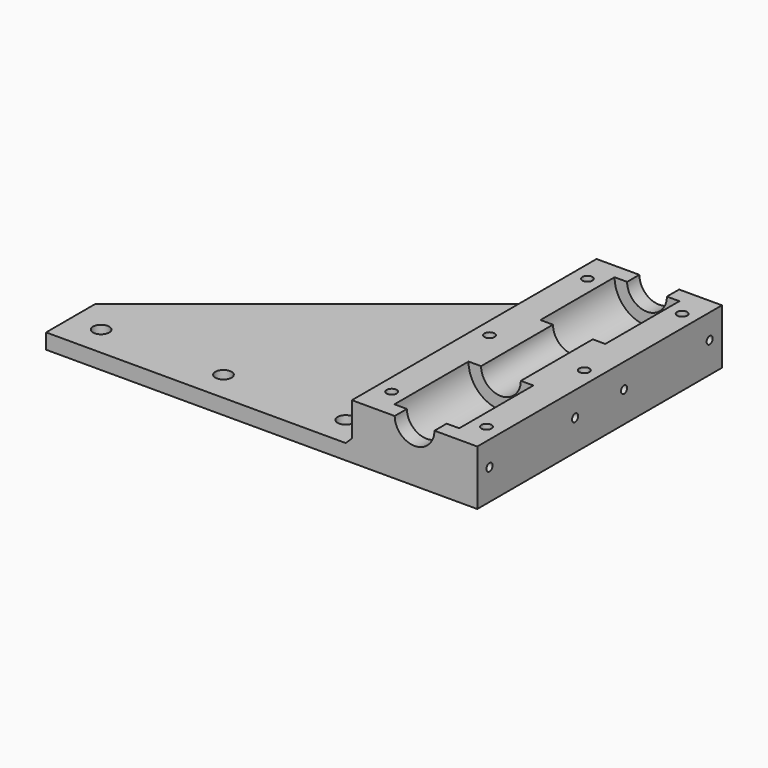
from build123d import *

# Parameters (mm, degrees)
PAD_DEPTH       = 50
POCKET_DEPTH    = 18.001
SKETCH003_R     = 10.6
POCKET001_DEPTH = 30.3
SKETCH004_R     = 10.6
POCKET002_DEPTH = 30.3
SKETCH005_R     = 1.65
SKETCH005_R_2   = 2.65
POCKET007_DEPTH = 18.001
POCKET008_DEPTH = 5
SKETCH006_R     = 1.25
POCKET009_DEPTH = 10
CHAMFER_SIZE    = 2


with BuildPart() as part:
    # Sketch001 → Pad (new body, symmetric)
    with BuildSketch(Plane.XZ):
        with BuildLine():
            Line((-20.5, 0), (-6.5, 0))
            ThreePointArc((-6.5, 0), (0, -6.5), (6.5, 0))
            Line((6.5, 0), (20.5, 0))
            Line((20.5, 0), (20.5, -18))
            Line((20.5, -18), (-120.5, -18))
            Line((-120.5, -18), (-120.5, -13))
            Line((-20.5, -13), (-120.5, -13))
            Line((-20.5, 0), (-20.5, -13))
        make_face()
    extrude(amount=PAD_DEPTH, both=True)

    # Sketch002 → Pocket (cut, through all)
    with BuildSketch(Plane.XY):
        Polygon((-20.5, 50), (-120.5, 50), (-120.5, -30), align=None)
    extrude(amount=-POCKET_DEPTH, mode=Mode.SUBTRACT)

    # Sketch003 (on DatumPlane) → Pocket001 (cut)
    with BuildSketch(Plane.XZ.offset(45)):
        Circle(SKETCH003_R)
    extrude(amount=-POCKET001_DEPTH, mode=Mode.SUBTRACT)

    # Sketch004 (on DatumPlane) → Pocket002 (cut)
    with BuildSketch(Plane.XZ.offset(-45)):
        Circle(SKETCH004_R)
    extrude(amount=POCKET002_DEPTH, mode=Mode.SUBTRACT)

    # Sketch005 → Pocket007 (cut, through all)
    with BuildSketch(Plane.XY):
        with Locations((-15.5, -40)):
            Circle(SKETCH005_R)
        with Locations((15.5, -40)):
            Circle(SKETCH005_R)
        with Locations((15.5, 0)):
            Circle(SKETCH005_R)
        with Locations((15.5, 40)):
            Circle(SKETCH005_R)
        with Locations((-15.5, 40)):
            Circle(SKETCH005_R)
        with Locations((-15.5, 0)):
            Circle(SKETCH005_R)
        with Locations((-110.5, -40)):
            Circle(SKETCH005_R_2)
        with Locations((-70.5, -40)):
            Circle(SKETCH005_R_2)
        with Locations((-30.5, -40)):
            Circle(SKETCH005_R_2)
    extrude(amount=-POCKET007_DEPTH, mode=Mode.SUBTRACT)

    # Sketch (on DatumPlane) → Pocket008 (cut)
    with BuildSketch(Plane.XY.offset(-18)):
        Polygon((-12.75, 38.412287), (-12.75, 41.587713), (-15.5, 43.175426), (-18.25, 41.587713), (-18.25, 38.412287), (-15.5, 36.824574), align=None)
        Polygon((18.25, 38.412287), (18.25, 41.587713), (15.5, 43.175426), (12.75, 41.587713), (12.75, 38.412287), (15.5, 36.824574), align=None)
        Polygon((-12.75, -1.587713), (-12.75, 1.587713), (-15.5, 3.175426), (-18.25, 1.587713), (-18.25, -1.587713), (-15.5, -3.175426), align=None)
        Polygon((18.25, -1.587713), (18.25, 1.587713), (15.5, 3.175426), (12.75, 1.587713), (12.75, -1.587713), (15.5, -3.175426), align=None)
        Polygon((-12.75, -41.587713), (-12.75, -38.412287), (-15.5, -36.824574), (-18.25, -38.412287), (-18.25, -41.587713), (-15.5, -43.175426), align=None)
        Polygon((18.25, -41.587713), (18.25, -38.412287), (15.5, -36.824574), (12.75, -38.412287), (12.75, -41.587713), (15.5, -43.175426), align=None)
    extrude(amount=POCKET008_DEPTH, mode=Mode.SUBTRACT)

    # Sketch006 (on DatumPlane) → Pocket009 (cut)
    with BuildSketch(Plane.YZ.offset(20.5)):
        with Locations((-45, -8)):
            Circle(SKETCH006_R)
        with Locations((-10, -8)):
            Circle(SKETCH006_R)
        with Locations((10, -8)):
            Circle(SKETCH006_R)
        with Locations((45, -8)):
            Circle(SKETCH006_R)
    extrude(amount=-POCKET009_DEPTH, mode=Mode.SUBTRACT)

    # Chamfer
    chamfer_edges = [part.edges().sort_by_distance(p)[0] for p in [
        (-20.5, 0, -13),
    ]]
    chamfer(chamfer_edges, length=CHAMFER_SIZE)


solid = part.part
